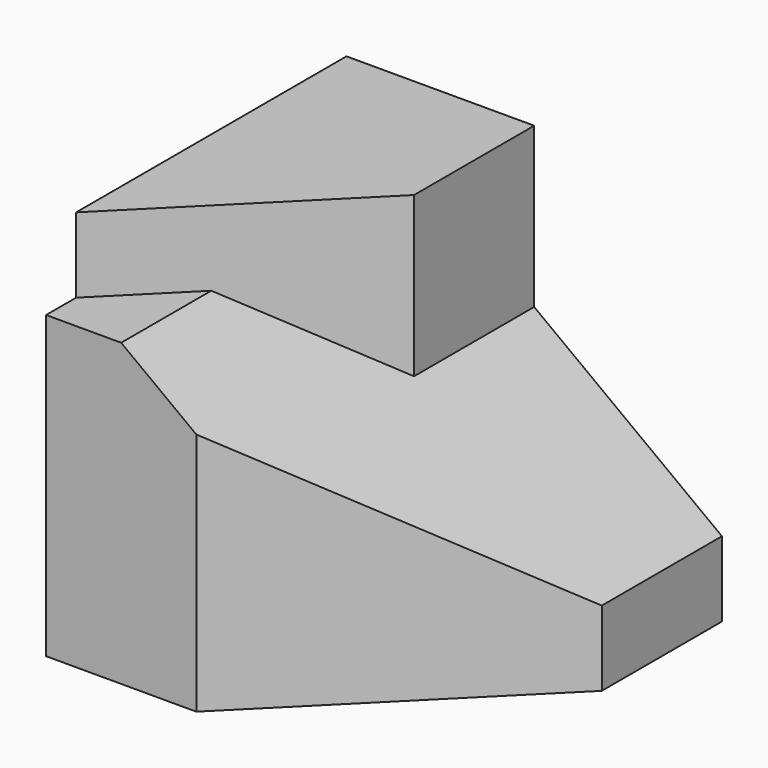
from build123d import *

# Parameters (mm, degrees)
F1_DEPTH = 10
F3_DEPTH = 8.001
F4_DEPTH = 10


with BuildPart() as f1:
    # F0 (on Front) → F1 (new body)
    with BuildSketch(Plane.XZ):
        Polygon((2, 8), (0, 8), (0, 0), (10, 0), (10, 2), align=None)
    extrude(amount=-F1_DEPTH)

    # F2 (on face) → F3 (cut, through all)
    with BuildSketch(Plane(origin=(0, 0, 0), x_dir=(1, 0, 0), z_dir=(0, 0, -1))):
        Polygon((10, 0), (4, 0), (10, -6), align=None)
    extrude(amount=-F3_DEPTH, mode=Mode.SUBTRACT)

    # F2 (on face) → F4 (join)
    with BuildSketch(Plane(origin=(0, 0, 0), x_dir=(1, 0, 0), z_dir=(0, 0, -1))):
        Polygon((5, -6), (0, -1), (0, -10), (5, -10), align=None)
    extrude(amount=-F4_DEPTH)


solid = f1.part
